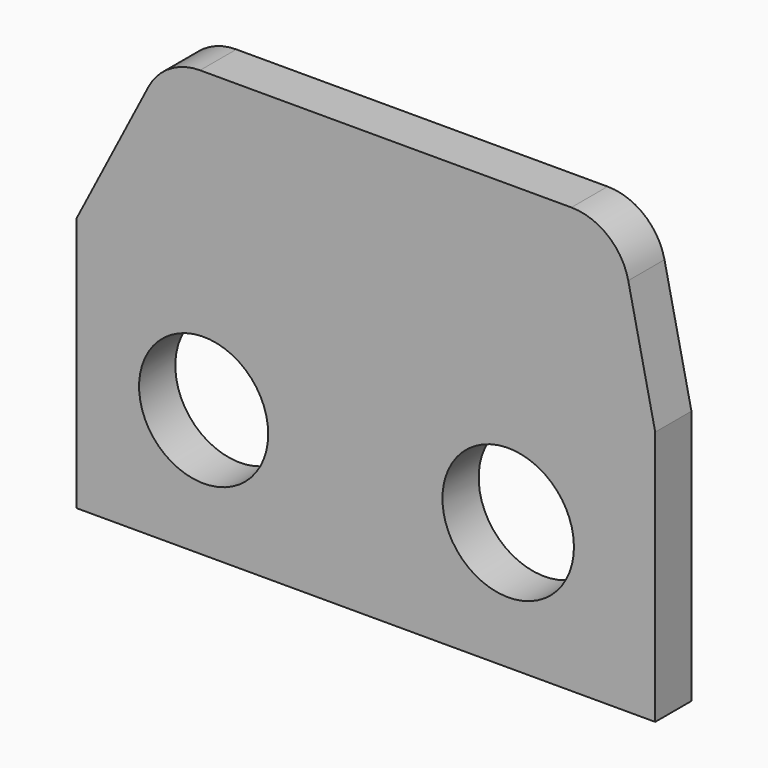
from build123d import *

# Parameters (mm, degrees)
F0_W     = 113.62245
F0_H     = 50.105066
F0_R     = 12.678209
F0_R_2   = 12.910992
F1_DEPTH = 8.89


with BuildPart() as f1:
    # F0 (on Front) → F1 (new body)
    with BuildSketch(Plane.XZ):
        with BuildLine():
            Line((-42.707942, 52.343298), (-56.811225, 25.052533))
            Line((-56.811225, 25.052533), (56.811225, 25.052533))
            Line((56.811225, 25.052533), (51.51997, 49.512478))
            ThreePointArc((51.51997, 49.512478), (47.5255, 55.991518), (40.348373, 58.525802))
            Line((40.348373, 58.525802), (-32.553697, 58.525802))
            ThreePointArc((-32.553697, 58.525802), (-38.497855, 56.858583), (-42.707942, 52.343298))
        make_face()
        Rectangle(F0_W, F0_H)
        with Locations((-31.859651, 0)):
            Circle(F0_R, mode=Mode.SUBTRACT)
        with Locations((27.941635, 0)):
            Circle(F0_R_2, mode=Mode.SUBTRACT)
    extrude(amount=-F1_DEPTH)


solid = f1.part
